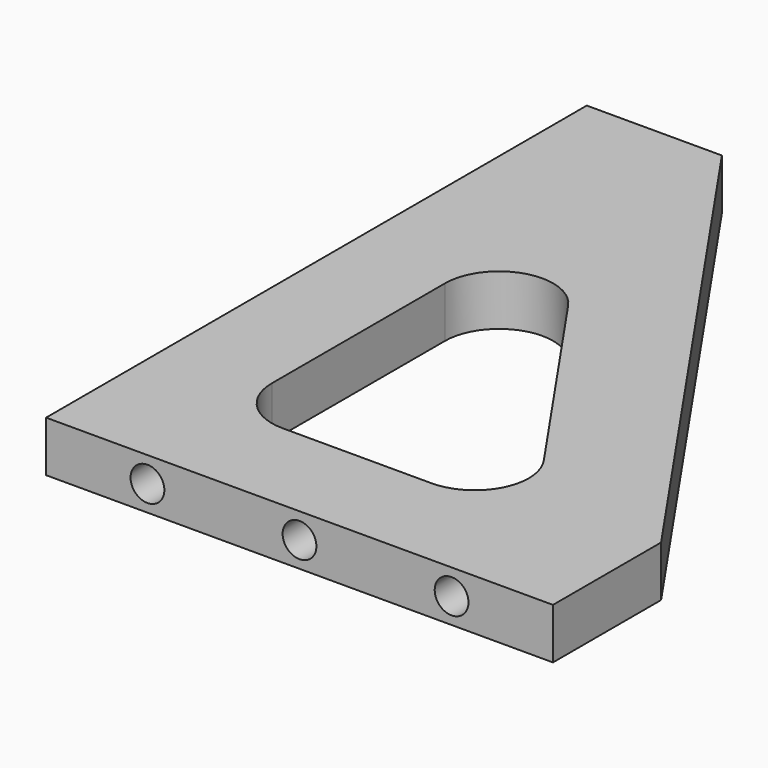
from build123d import *

# Parameters (mm, degrees)
F1_DEPTH = 9.525
F3_DEPTH = 9.526
F6_DEPTH = 12.7
F7_DEPTH = 12.7
F8_DEPTH = 12.7


with BuildPart() as f1:
    # F0 (on Top) → F1 (new body)
    with BuildSketch(Plane.XY):
        Polygon((-16.5253259897, 63.4753721058), (-41.9253259897, 63.4753721058), (-41.9253259897, -63.5246278942), (53.3246740103, -63.5246278942), (53.3246740103, -38.1246278942), align=None)
        Polygon((-16.5253259897, 63.4753721058), (-41.9253259897, 63.4753721058), (-41.9253259897, -63.5246278942), (53.3246740103, -63.5246278942), (53.3246740103, -38.1246278942), align=None)
    extrude(amount=F1_DEPTH)

    # F2 (on face) → F3 (cut, through all)
    with BuildSketch(Plane.XY.offset(9.525)):
        with BuildLine():
            ThreePointArc((-4.3430600399, 12.1298858759), (-15.7289100643, 16.0767315562), (-22.8753259897, 6.3739530353))
            Line((-22.8753259897, 6.3739530353), (-22.8753259897, -34.3146278942))
            ThreePointArc((-22.8753259897, -34.3146278942), (-19.8995308866, -41.498832791), (-12.7153259897, -44.4746278942))
            Line((-12.7153259897, -44.4746278942), (15.2580733993, -44.4746278942))
            ThreePointArc((15.2580733993, -44.4746278942), (24.2498996226, -39.0446026478), (23.6303393492, -28.5586950536))
            Line((23.6303393492, -28.5586950536), (-4.3430600399, 12.1298858759))
        make_face()
    extrude(amount=-F3_DEPTH, mode=Mode.SUBTRACT)

    # F5 (on face) → F6 (cut)
    with BuildSketch(Plane(origin=(-41.9253259897, 0, 0), x_dir=(0, -1, 0), z_dir=(-1, 0, 0))):
        with BuildLine():
            ThreePointArc((-41.2503721058, 4.7625), (-44.4253721058, 7.9375), (-47.6003721058, 4.7625))
            Line((-47.6003721058, 4.7625), (-41.2503721058, 4.7625))
        make_face()
        with BuildLine():
            ThreePointArc((47.6496278942, 4.7625), (44.4746278942, 7.9375), (41.2996278942, 4.7625))
            Line((41.2996278942, 4.7625), (47.6496278942, 4.7625))
        make_face()
        with BuildLine():
            Line((47.6496278942, 4.7625), (41.2996278942, 4.7625))
            ThreePointArc((41.2996278942, 4.7625), (44.4746278942, 1.5875), (47.6496278942, 4.7625))
        make_face()
        with BuildLine():
            ThreePointArc((3.1996278942, 4.7625), (0.0246278942, 7.9375), (-3.1503721058, 4.7625))
            Line((-3.1503721058, 4.7625), (3.1996278942, 4.7625))
        make_face()
        with BuildLine():
            Line((3.1996278942, 4.7625), (-3.1503721058, 4.7625))
            ThreePointArc((-3.1503721058, 4.7625), (0.0246278942, 1.5875), (3.1996278942, 4.7625))
        make_face()
        with BuildLine():
            Line((-41.2503721058, 4.7625), (-47.6003721058, 4.7625))
            ThreePointArc((-47.6003721058, 4.7625), (-44.4253721058, 1.5875), (-41.2503721058, 4.7625))
        make_face()
    extrude(amount=-F6_DEPTH, mode=Mode.SUBTRACT)

    # F4 (on face) → F7 (cut)
    with BuildSketch(Plane.XZ.offset(63.5246278942)):
        with BuildLine():
            ThreePointArc((-19.7003259897, 4.7625), (-22.8753259897, 7.9375), (-26.0503259897, 4.7625))
            Line((-26.0503259897, 4.7625), (-19.7003259897, 4.7625))
        make_face()
        with BuildLine():
            ThreePointArc((37.4496740103, 4.7625), (34.2746740103, 7.9375), (31.0996740103, 4.7625))
            Line((31.0996740103, 4.7625), (37.4496740103, 4.7625))
        make_face()
        with BuildLine():
            Line((37.4496740103, 4.7625), (31.0996740103, 4.7625))
            ThreePointArc((31.0996740103, 4.7625), (34.2746740103, 1.5875), (37.4496740103, 4.7625))
        make_face()
        with BuildLine():
            ThreePointArc((8.8746740103, 4.7625), (5.6996740103, 7.9375), (2.5246740103, 4.7625))
            Line((2.5246740103, 4.7625), (8.8746740103, 4.7625))
        make_face()
        with BuildLine():
            Line((8.8746740103, 4.7625), (2.5246740103, 4.7625))
            ThreePointArc((2.5246740103, 4.7625), (5.6996740103, 1.5875), (8.8746740103, 4.7625))
        make_face()
        with BuildLine():
            Line((-19.7003259897, 4.7625), (-26.0503259897, 4.7625))
            ThreePointArc((-26.0503259897, 4.7625), (-22.8753259897, 1.5875), (-19.7003259897, 4.7625))
        make_face()
    extrude(amount=-F7_DEPTH, mode=Mode.SUBTRACT)

    # F4 (on face) → F8 (cut)
    with BuildSketch(Plane.XZ.offset(63.5246278942)):
        with BuildLine():
            ThreePointArc((-19.7003259897, 4.7625), (-22.8753259897, 7.9375), (-26.0503259897, 4.7625))
            Line((-26.0503259897, 4.7625), (-19.7003259897, 4.7625))
        make_face()
        with BuildLine():
            ThreePointArc((37.4496740103, 4.7625), (34.2746740103, 7.9375), (31.0996740103, 4.7625))
            Line((31.0996740103, 4.7625), (37.4496740103, 4.7625))
        make_face()
        with BuildLine():
            Line((37.4496740103, 4.7625), (31.0996740103, 4.7625))
            ThreePointArc((31.0996740103, 4.7625), (34.2746740103, 1.5875), (37.4496740103, 4.7625))
        make_face()
        with BuildLine():
            ThreePointArc((8.8746740103, 4.7625), (5.6996740103, 7.9375), (2.5246740103, 4.7625))
            Line((2.5246740103, 4.7625), (8.8746740103, 4.7625))
        make_face()
        with BuildLine():
            Line((8.8746740103, 4.7625), (2.5246740103, 4.7625))
            ThreePointArc((2.5246740103, 4.7625), (5.6996740103, 1.5875), (8.8746740103, 4.7625))
        make_face()
        with BuildLine():
            Line((-19.7003259897, 4.7625), (-26.0503259897, 4.7625))
            ThreePointArc((-26.0503259897, 4.7625), (-22.8753259897, 1.5875), (-19.7003259897, 4.7625))
        make_face()
    extrude(amount=-F8_DEPTH, mode=Mode.SUBTRACT)


solid = f1.part
